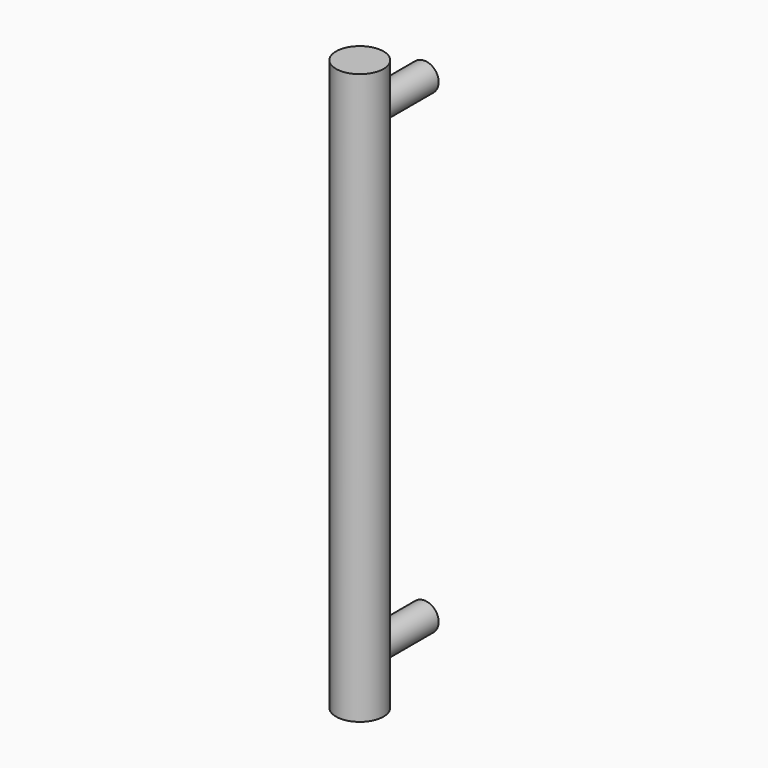
from build123d import *

# Parameters (mm, degrees)
CLONE2D036_R           = 5
OBJ1_DEPTH = 60
CLONE2D034_R           = 3
OBJ2_DEPTH = 17
CLONE2D035_R           = 3
OBJ3 = 17


with BuildPart() as obj1:
    # Clone2D036 (on Sketch) → obj1 (new body, symmetric)
    with BuildSketch(Plane(origin=(471.25, -267, 0), x_dir=(1, 0, 0), z_dir=(0, 0, -1))):
        Circle(CLONE2D036_R)
    extrude(amount=OBJ1_DEPTH, both=True)


with BuildPart() as obj2:
    # Clone2D034 (on Sketch) → obj2 (new body)
    with BuildSketch(Plane(origin=(471.25, -250, -50), x_dir=(0, 0, -1), z_dir=(0, -1, 0))):
        Circle(CLONE2D034_R)
    extrude(amount=OBJ2_DEPTH)


with BuildPart() as fusion011:
    with BuildSketch(Plane(origin=(471.25, -250, 50), x_dir=(0, 0, -1), z_dir=(0, -1, 0))):
        Circle(CLONE2D035_R)
    extrude(amount=OBJ3)

    # Fusion011: union obj1, obj2
    add(obj1.part)
    add(obj2.part)


solid = fusion011.part
